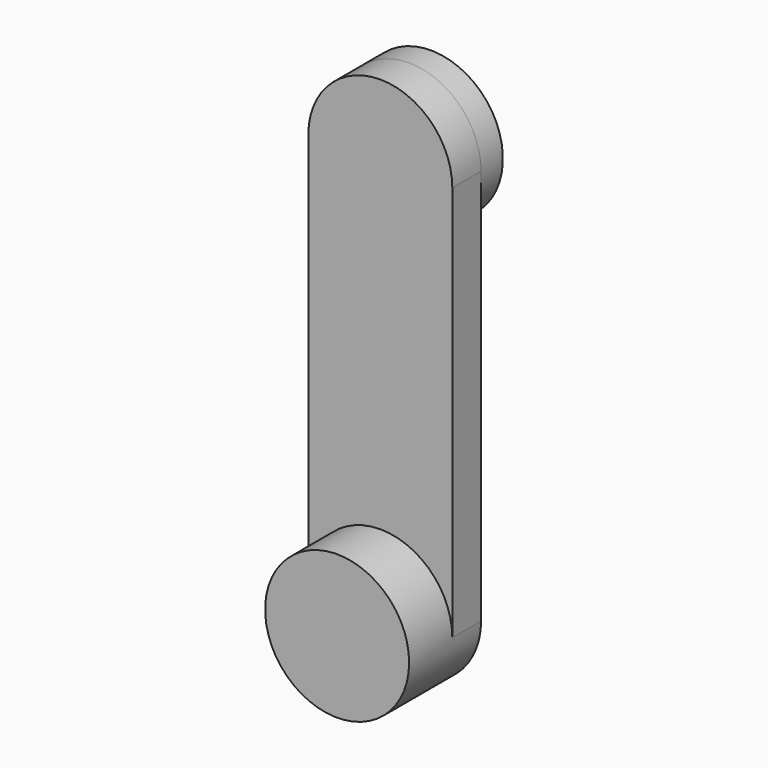
from build123d import *

# Parameters (mm, degrees)
F1_DEPTH = 3.175
F2_R     = 6.35
F3_DEPTH = 2.4
F4_R     = 6.35
F5_DEPTH = 4.7625


with BuildPart() as f1:
    # F0 (on Front) → F1 (new body)
    with BuildSketch(Plane.XZ):
        with BuildLine():
            Line((-6.35, 0), (-6.35, -34.925))
            ThreePointArc((-6.35, -34.925), (0, -41.275), (6.35, -34.925))
            Line((6.35, -34.925), (6.35, 0))
            ThreePointArc((6.35, 0), (0, 6.35), (-6.35, 0))
        make_face()
    extrude(amount=F1_DEPTH)

    # F2 (on face) → F3 (join)
    with BuildSketch(Plane(origin=(0, 0, 0), x_dir=(-1, 0, 0), z_dir=(0, 1, 0))):
        Circle(F2_R)
    extrude(amount=F3_DEPTH)

    # F4 (on face) → F5 (join)
    with BuildSketch(Plane.XZ.offset(3.175)):
        with Locations((0, -34.925)):
            Circle(F4_R)
    extrude(amount=F5_DEPTH)


solid = f1.part
